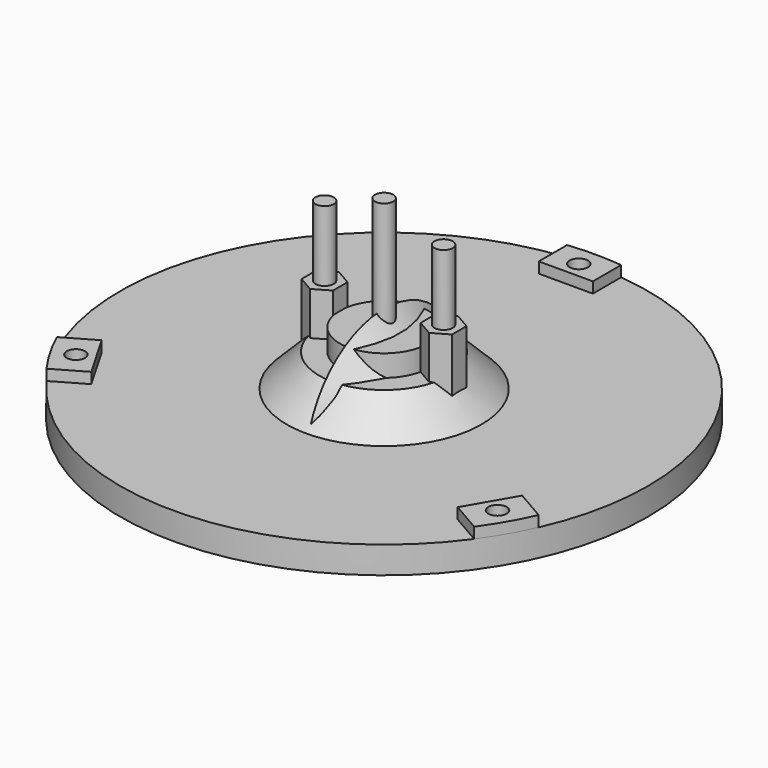
from build123d import *

# Parameters (mm, degrees)
CYLINDER_R               = 2.95
CYLINDER_DEPTH           = 7
CYLINDER001_R            = 1.7
CYLINDER001_DEPTH        = 30
PRISM_DEPTH              = 12
CYLINDER1003_R           = 8.2
CYLINDER1003_DEPTH       = 15
CLONE139_PLACEMENT_ANGLE = 30
BOX251_W                 = 30.6
BOX251_H                 = 7
BOX251_DEPTH             = 4
CYLINDER1015_R           = 5
CYLINDER1015_DEPTH       = 10
CLONE140_PLACEMENT_ANGLE = 30
CLONE135_PITCH_ANGLE     = -90
ARRAY008_COUNT           = 3
CYLINDER1014_R           = 48.8
CYLINDER1014_DEPTH       = 5
PAD019_DEPTH             = 2
ARRAY007_COUNT           = 3


with BuildPart() as m3bolthead:
    # Cylinder → Cylinder (new body)
    with BuildSketch(Plane.XY):
        Circle(CYLINDER_R)
    extrude(amount=CYLINDER_DEPTH)


with BuildPart() as m3bolt:
    # Cylinder001 → Cylinder001 (new body)
    with BuildSketch(Plane.XY.offset(6)):
        Circle(CYLINDER001_R)
    extrude(amount=CYLINDER001_DEPTH)

    # Fusion: union M3BoltHead
    add(m3bolthead.part)


with BuildPart() as m3nut:
    # Prism → Prism (new body)
    with BuildSketch(Plane.XY):
        Polygon((3.35, 0), (1.675, 2.901185), (-1.675, 2.901185), (-3.35, 0), (-1.675, -2.901185), (1.675, -2.901185), align=None)
    extrude(amount=PRISM_DEPTH)


with BuildPart() as obj1:
    # Sketch016 → Revolution003 (revolve)
    with BuildSketch(Plane.XY):
        Polygon((0, 0), (0, 18), (6, 12), (6, 0), align=None)
    revolve(axis=Axis((0, 0, 0), (1, 0, 0)))


with BuildPart() as obj2:
    # Cylinder1003 → Cylinder1003 (new body)
    with BuildSketch(Plane.XY):
        Circle(CYLINDER1003_R)
    extrude(amount=CYLINDER1003_DEPTH)


with BuildPart() as clone_of_m3nut005:
    # Clone139 base: copy of M3Nut
    add(m3nut.part)


with BuildPart() as clone_of_m3nut005_1:
    # Clone139 placement: moved
    add(clone_of_m3nut005.part.moved(Location((11, 0, 7))).rotate(Axis((11, 0, 7), (0, 0, 1)), CLONE139_PLACEMENT_ANGLE))


with BuildPart() as cube015:
    # Box251 → Box251 (new body)
    with BuildSketch(Plane(origin=(-15.3, -3.5, 0), x_dir=(1, 0, 0), z_dir=(0, 0, 1))):
        with Locations((15.3, 3.5)):
            Rectangle(BOX251_W, BOX251_H)
    extrude(amount=BOX251_DEPTH)


with BuildPart() as clone_of_m3bolt039:
    # Clone137 base: copy of M3Bolt
    add(m3bolt.part)


with BuildPart() as clone_of_m3bolt039_1:
    # Clone137 placement: moved
    add(clone_of_m3bolt039.part.moved(Location((11, 0, -4))))


with BuildPart() as clone_of_m3bolt040:
    # Clone138 base: copy of M3Bolt
    add(m3bolt.part)


with BuildPart() as clone_of_m3bolt040_1:
    # Clone138 placement: moved
    add(clone_of_m3bolt040.part.moved(Location((-11, 0, -4))))


with BuildPart() as cylinder021:
    # Cylinder1015 → Cylinder1015 (new body)
    with BuildSketch(Plane.XY.offset(4)):
        Circle(CYLINDER1015_R)
    extrude(amount=CYLINDER1015_DEPTH)


with BuildPart() as obj3:
    # Clone136 base: copy of obj2
    add(obj2.part)


with BuildPart() as obj3_1:
    # Clone136 placement: moved
    add(obj3.part.moved(Location((0, 0, -6))))


with BuildPart() as obj4:
    # Clone140 base: copy of M3Nut
    add(m3nut.part)


with BuildPart() as obj4_1:
    # Clone140 placement: moved
    add(obj4.part.moved(Location((-11, 0, 7))).rotate(Axis((-11, 0, 7), (0, 0, 1)), CLONE140_PLACEMENT_ANGLE))

    # Fusion062: union Clone of M3Nut005, Cube015, Clone of M3Bolt039, Clone of M3Bolt040, Cylinder021, obj3
    add(clone_of_m3nut005_1.part)
    add(cube015.part)
    add(clone_of_m3bolt039_1.part)
    add(clone_of_m3bolt040_1.part)
    add(cylinder021.part)
    add(obj3_1.part)


with BuildPart() as obj5:
    # Clone141 base: copy of obj4
    add(obj4_1.part)


with BuildPart() as obj6:
    # Clone135 base: copy of obj1
    add(obj1.part)


with BuildPart() as obj6_1:
    # Clone135 pitch: moved
    add(obj6.part.rotate(Axis((0, 0, 0), (0, 1, 0)), CLONE135_PITCH_ANGLE))


with BuildPart() as obj6_2:
    # Clone135 placement: moved
    add(obj6_1.part.moved(Location((0, 0, 5))))


with BuildPart() as array008:
    # Clone134 base: copy of M3Bolt
    add(m3bolt.part)


with BuildPart() as array008_1:
    # Clone134 placement: moved
    add(array008.part.moved(Location((0, 45, -4))))

    # Array008: Array008 ×3 about axis
    array008_axis = Axis((0, 0, 0), (0, 0, 1))


with BuildPart() as array008_2:
    add(array008_1.part)
    for i in range(1, ARRAY008_COUNT):
        add(array008_1.part.rotate(array008_axis, i * 360 / ARRAY008_COUNT))


with BuildPart() as cylinder020:
    # Cylinder1014 → Cylinder1014 (new body)
    with BuildSketch(Plane.XY):
        Circle(CYLINDER1014_R)
    extrude(amount=CYLINDER1014_DEPTH)


with BuildPart() as obj7:
    # Sketch027 → Pad019 (new body)
    with BuildSketch(Plane.XY.offset(5)):
        with BuildLine():
            ThreePointArc((5, 48.543177), (0, 48.8), (-5, 48.543177))
            Line((-5, 42), (-5, 48.543177))
            Line((5, 42), (-5, 42))
            Line((5, 48.543177), (5, 42))
        make_face()
    extrude(amount=PAD019_DEPTH)

    # Array007: obj7 ×3 about axis
    array007_axis = Axis((0, 0, 0), (0, 0, 1))


with BuildPart() as obj7_1:
    add(obj7.part)
    for i in range(1, ARRAY007_COUNT):
        add(obj7.part.rotate(array007_axis, i * 360 / ARRAY007_COUNT))

    # Fusion063: union Cylinder020
    add(cylinder020.part)

    # Cut: cut Array008
    add(array008_2.part, mode=Mode.SUBTRACT)

    # Fusion064: union obj6
    add(obj6_2.part)

    # Cut001: cut obj5
    add(obj5.part, mode=Mode.SUBTRACT)


solid = Compound([m3bolt.part, m3nut.part, obj1.part, obj2.part, obj4_1.part, obj7_1.part])
